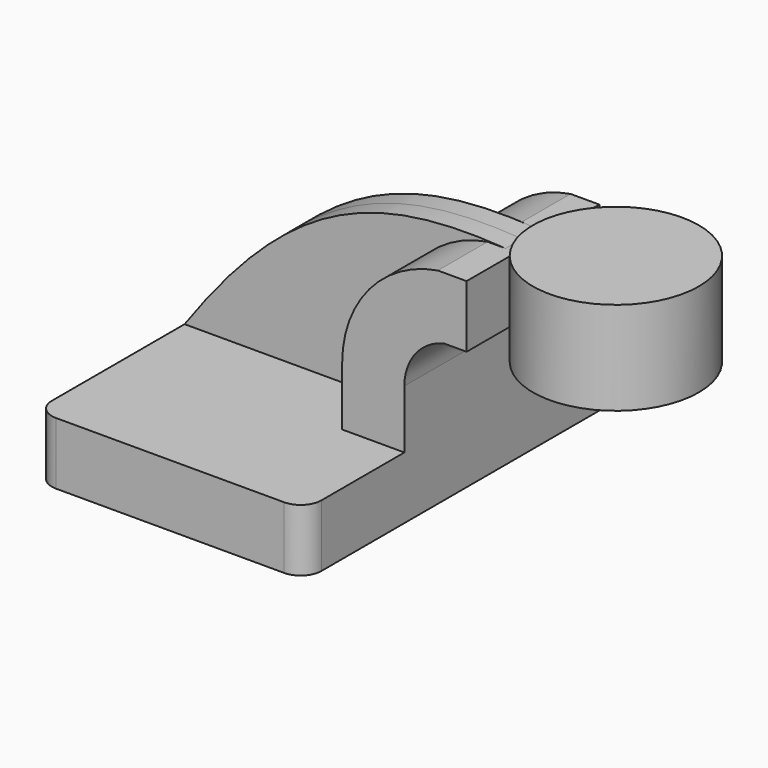
from build123d import *

# Parameters (mm, degrees)
F1_DEPTH = 63.5
F2_DEPTH = 25.4
F3_DEPTH = 6.35
F5_R     = 6.35


with BuildPart() as f1:
    # F0 (on Front) → F1 (new body, symmetric)
    with BuildSketch(Plane.XZ):
        Polygon((22.225, 9.525), (-41.275, 9.525), (-41.275, -9.525), (41.275, -9.525), (41.275, 9.525), align=None)
    extrude(amount=F1_DEPTH, both=True)

    # F0 (on Front) → F2 (join, symmetric)
    with BuildSketch(Plane.XZ):
        with BuildLine():
            Line((22.225, 27.444869), (22.225, 9.525))
            Line((22.225, 9.525), (41.275, 9.525))
            Line((41.275, 9.525), (41.275, 27.444869))
            ThreePointArc((41.275, 27.444869), (44.658538, 37.241756), (53.366843, 42.8625))
            Line((53.366843, 42.8625), (60.325, 42.8625))
            Line((60.325, 42.8625), (60.325, 61.9125))
            Line((60.325, 61.9125), (57.032458, 61.9125))
            Line((57.032458, 61.9125), (51.516348, 61.9125))
            ThreePointArc((51.516348, 61.9125), (30.536931, 50.061238), (22.225, 27.444869))
        make_face()
    extrude(amount=F2_DEPTH, both=True)

    # F0 (on Front) → F3 (join, symmetric)
    with BuildSketch(Plane.XZ):
        with BuildLine():
            add(Edge.make_bspline(
                [(-41.275, 9.525), (-9.536937, 54.105725), (16.330028, 64.756826), (57.032458, 61.9125)],
                knots=[0, 0, 0, 0, 111.394823, 111.394823, 111.394823, 111.394823], degree=3))
            Line((-41.275, 9.525), (22.225, 9.525))
            Line((22.225, 9.525), (22.225, 27.444869))
            ThreePointArc((22.225, 27.444869), (30.536931, 50.061238), (51.516348, 61.9125))
            Line((51.516348, 61.9125), (57.032458, 61.9125))
        make_face()
    extrude(amount=F3_DEPTH, both=True)

    # F0 (on Front) → F4 (revolve)
    with BuildSketch(Plane.XZ):
        Polygon((85.725, 66.675), (85.725, 61.9125), (85.725, 42.8625), (85.725, 38.1), (111.125, 38.1), (111.125, 66.675), align=None)
    revolve(axis=Axis((85.725, 0, 52.3875), (0, 0, 1)))

    # F5
    f5_edges = [f1.edges().sort_by_distance(p)[0] for p in [
        (41.275, -63.5, 0),
        (-41.275, -63.5, 0),
        (41.275, 63.5, 0),
        (-41.275, 63.5, 0),
    ]]
    fillet(f5_edges, radius=F5_R)


solid = f1.part
